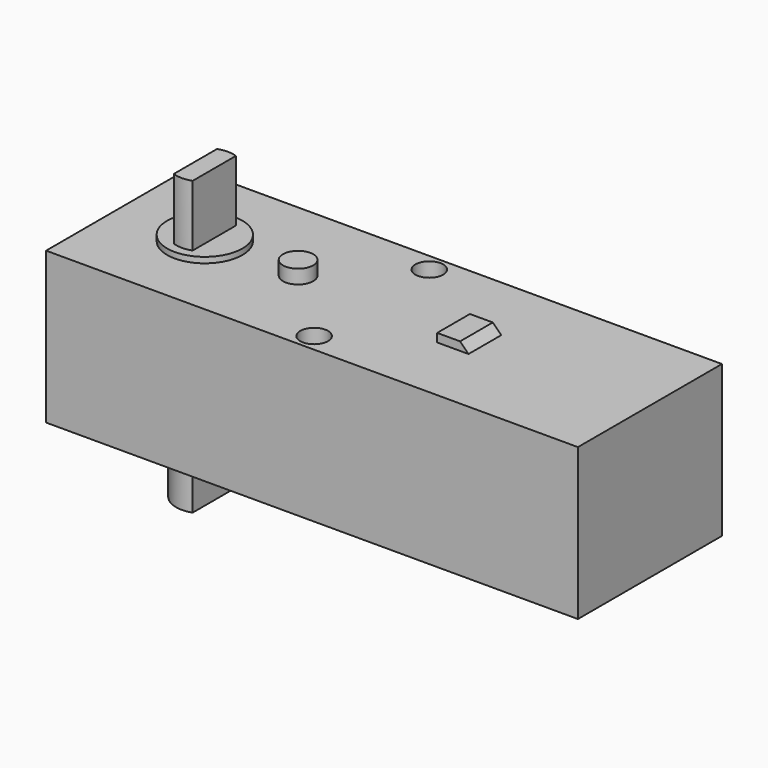
from build123d import *

# Parameters (mm, degrees)
BOX007_W          = 4.3
BOX007_H          = 5
BOX007_DEPTH      = 2
CHAMFER001_SIZE   = 1.5
BOX006_W          = 4.3
BOX006_H          = 5
BOX006_DEPTH      = 2
CHAMFER_SIZE      = 1.5
BOX003_W          = 10
BOX003_H          = 10
BOX003_DEPTH      = 40
BOX002_W          = 10
BOX002_H          = 10
BOX002_DEPTH      = 40
CYLINDER010_R     = 3.5
CYLINDER010_DEPTH = 35.7
CYLINDER008_R     = 4.6
CYLINDER008_DEPTH = 22
CYLINDER006_R     = 1.85
CYLINDER006_DEPTH = 10
CYLINDER003_R     = 1.7
CYLINDER003_DEPTH = 50
CYLINDER002_R     = 1.7
CYLINDER002_DEPTH = 50
CYLINDER_R        = 1.5
CYLINDER_DEPTH    = 10
BOX001_W          = 10
BOX001_H          = 6
BOX001_DEPTH      = 3
FILLET_R          = 2.5
FILLET001_R       = 2.5
BOX_W             = 65
BOX_H             = 22
BOX_DEPTH         = 18.5


with BuildPart() as chamfer001:
    # Box007 → Box007 (new body)
    with BuildSketch(Plane(origin=(41, -2.5, 17.53), x_dir=(1, 0, 0), z_dir=(0, 0, 1))):
        with Locations((2.15, 2.5)):
            Rectangle(BOX007_W, BOX007_H)
    extrude(amount=BOX007_DEPTH)

    # Chamfer001
    chamfer001_edges = [chamfer001.edges().sort_by_distance(p)[0] for p in [
        (45.3, 0, 19.53),
    ]]
    chamfer(chamfer001_edges, length=CHAMFER001_SIZE)


with BuildPart() as part_mirroring:
    # Part__Mirroring: instance of Chamfer001
    add(chamfer001.part.mirror(Plane(origin=(0, 0, 0), x_dir=(0, 1, 0), z_dir=(0, 0, 1))))


with BuildPart() as part_mirroring_1:
    # Part__Mirroring placement: moved
    add(part_mirroring.part.moved(Location((0, 0, 18.4))))


with BuildPart() as fusion004:
    # Box006 → Box006 (new body)
    with BuildSketch(Plane(origin=(41, -2.5, 17.53), x_dir=(1, 0, 0), z_dir=(0, 0, 1))):
        with Locations((2.15, 2.5)):
            Rectangle(BOX006_W, BOX006_H)
    extrude(amount=BOX006_DEPTH)

    # Chamfer
    chamfer_edges = [fusion004.edges().sort_by_distance(p)[0] for p in [
        (45.3, 0, 19.53),
    ]]
    chamfer(chamfer_edges, length=CHAMFER_SIZE)

    # Fusion004: union Part__Mirroring
    add(part_mirroring_1.part)


with BuildPart() as cube003:
    # Box003 → Box003 (new body)
    with BuildSketch(Plane(origin=(-0.55, -5, 5), x_dir=(1, 0, 0), z_dir=(0, 0, 1))):
        with Locations((5, 5)):
            Rectangle(BOX003_W, BOX003_H)
    extrude(amount=BOX003_DEPTH)


with BuildPart() as cube002:
    # Box002 → Box002 (new body)
    with BuildSketch(Plane(origin=(11.75, -5, -11), x_dir=(1, 0, 0), z_dir=(0, 0, 1))):
        with Locations((5, 5)):
            Rectangle(BOX002_W, BOX002_H)
    extrude(amount=BOX002_DEPTH)


with BuildPart() as cut004:
    # Cylinder010 → Cylinder010 (new body)
    with BuildSketch(Plane(origin=(10.6, 0, -9), x_dir=(1, 0, 0), z_dir=(0, 0, 1))):
        Circle(CYLINDER010_R)
    extrude(amount=CYLINDER010_DEPTH)

    # Cut003: cut Cube002
    add(cube002.part, mode=Mode.SUBTRACT)

    # Cut004: cut Cube003
    add(cube003.part, mode=Mode.SUBTRACT)


with BuildPart() as cylinder004:
    # Cylinder008 → Cylinder008 (new body)
    with BuildSketch(Plane(origin=(10.6, 0, -2.8), x_dir=(1, 0, 0), z_dir=(0, 0, 1))):
        Circle(CYLINDER008_R)
    extrude(amount=CYLINDER008_DEPTH)


with BuildPart() as cylinder003:
    # Cylinder006 → Cylinder006 (new body)
    with BuildSketch(Plane(origin=(22, 0, 10.2), x_dir=(1, 0, 0), z_dir=(0, 0, 1))):
        Circle(CYLINDER006_R)
    extrude(amount=CYLINDER006_DEPTH)


with BuildPart() as cylinder002:
    # Cylinder003 → Cylinder003 (new body)
    with BuildSketch(Plane(origin=(31, -8.8, -25), x_dir=(1, 0, 0), z_dir=(0, 0, 1))):
        Circle(CYLINDER003_R)
    extrude(amount=CYLINDER003_DEPTH)


with BuildPart() as cylinder001:
    # Cylinder002 → Cylinder002 (new body)
    with BuildSketch(Plane(origin=(31, 8.8, -25), x_dir=(1, 0, 0), z_dir=(0, 0, 1))):
        Circle(CYLINDER002_R)
    extrude(amount=CYLINDER002_DEPTH)


with BuildPart() as cylinder:
    # Cylinder → Cylinder (new body)
    with BuildSketch(Plane(origin=(-2.8, 0, 3), x_dir=(1, 0, 0), z_dir=(0, 0, 1))):
        Circle(CYLINDER_R)
    extrude(amount=CYLINDER_DEPTH)


with BuildPart() as fillet001:
    # Box001 → Box001 (new body)
    with BuildSketch(Plane(origin=(-5, -3, 7), x_dir=(1, 0, 0), z_dir=(0, 0, 1))):
        with Locations((5, 3)):
            Rectangle(BOX001_W, BOX001_H)
    extrude(amount=BOX001_DEPTH)

    # Cut: cut Cylinder
    add(cylinder.part, mode=Mode.SUBTRACT)

    # Fillet
    fillet_edges = [fillet001.edges().sort_by_distance(p)[0] for p in [
        (-5, -3, 8.5),
    ]]
    fillet(fillet_edges, radius=FILLET_R)

    # Fillet001
    fillet001_edges = [fillet001.edges().sort_by_distance(p)[0] for p in [
        (-5, 3, 8.5),
    ]]
    fillet(fillet001_edges, radius=FILLET001_R)


with BuildPart() as motor:
    # Box → Box (new body)
    with BuildSketch(Plane(origin=(0, -11, 0), x_dir=(1, 0, 0), z_dir=(0, 0, 1))):
        with Locations((32.5, 11)):
            Rectangle(BOX_W, BOX_H)
    extrude(amount=BOX_DEPTH)

    # Fusion: union Fillet001
    add(fillet001.part)

    # Cut001: cut Cylinder001
    add(cylinder001.part, mode=Mode.SUBTRACT)

    # Cut002: cut Cylinder002
    add(cylinder002.part, mode=Mode.SUBTRACT)

    # Fusion001: union Cylinder003
    add(cylinder003.part)

    # Fusion002: union Cylinder004
    add(cylinder004.part)

    # Fusion003: union Cut004
    add(cut004.part)

    # Fusion006: union Fusion004
    add(fusion004.part)


with BuildPart() as motor_1:
    # Fusion006 placement: moved
    add(motor.part.moved(Location((-10.6, 0, 3))))


solid = motor_1.part
